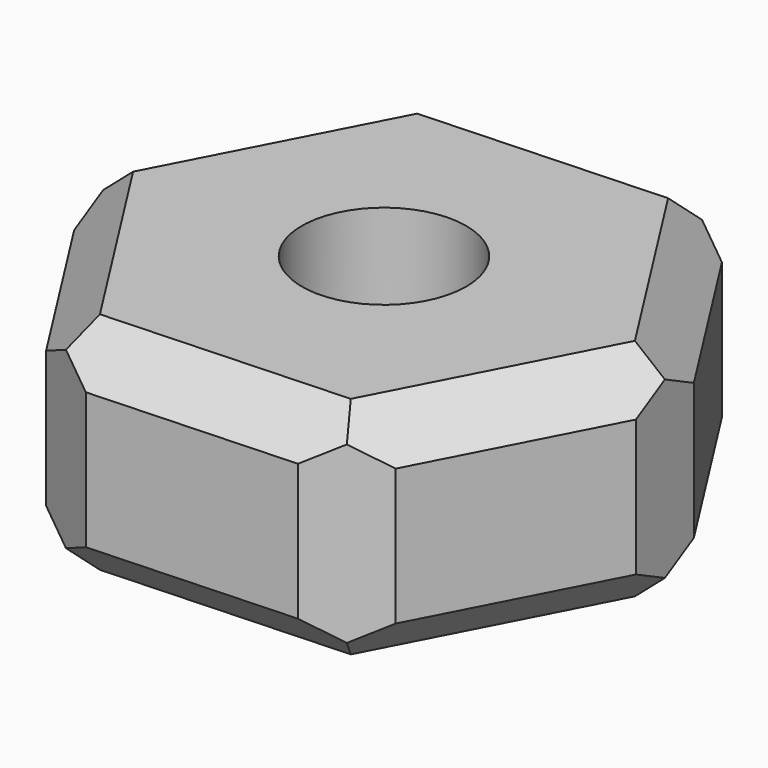
from build123d import *

# Parameters (mm, degrees)
F0_R     = 9.283405223
F1_DEPTH = 25.4
F2_SIZE  = 5
F3_SIZE  = 5


with BuildPart() as f1:
    # F0 (on Top) → F1 (new body)
    with BuildSketch(Plane.XY):
        Polygon((-17.8308878342, 27.9613517337), (-33.1306848427, -1.4613259696), (-15.2997970084, -29.4226777033), (17.8308878342, -27.9613517337), (33.1306848427, 1.4613259696), (15.2997970084, 29.4226777033), align=None)
        Circle(F0_R, mode=Mode.SUBTRACT)
    extrude(amount=F1_DEPTH)

    # F2
    f2_edges = [f1.edges().sort_by_distance(p)[0] for p in [
        (-17.830888, 27.961352, 12.7),
        (15.299797, 29.422678, 12.7),
        (33.130685, 1.461326, 12.7),
        (-33.130685, -1.461326, 12.7),
        (-15.299797, -29.422678, 12.7),
        (17.830888, -27.961352, 12.7),
    ]]
    chamfer(f2_edges, length=F2_SIZE)

    # F3 (call 1 of 12: OpenCascade refuses the feature's edges together)
    f3_edges = [f1.edges().sort_by_distance(p)[0] for p in [
        (24.215241, 15.442002, 0),
    ]]
    chamfer(f3_edges, length=F3_SIZE)

    # F3#2 (call 2 of 12)
    f3_2_edges = [f1.edges().sort_by_distance(p)[0] for p in [
        (-1.265545, 28.692015, 0),
    ]]
    chamfer(f3_2_edges, length=F3_SIZE)

    # F3#3 (call 3 of 12)
    f3_3_edges = [f1.edges().sort_by_distance(p)[0] for p in [
        (24.215241, 15.442002, 25.4),
    ]]
    chamfer(f3_3_edges, length=F3_SIZE)

    # F3#4 (call 4 of 12)
    f3_4_edges = [f1.edges().sort_by_distance(p)[0] for p in [
        (-1.265545, 28.692015, 25.4),
    ]]
    chamfer(f3_4_edges, length=F3_SIZE)

    # F3#5 (call 5 of 12)
    f3_5_edges = [f1.edges().sort_by_distance(p)[0] for p in [
        (-25.480786, 13.250013, 25.4),
    ]]
    chamfer(f3_5_edges, length=F3_SIZE)

    # F3#6 (call 6 of 12)
    f3_6_edges = [f1.edges().sort_by_distance(p)[0] for p in [
        (-25.480786, 13.250013, 0),
    ]]
    chamfer(f3_6_edges, length=F3_SIZE)

    # F3#7 (call 7 of 12)
    f3_7_edges = [f1.edges().sort_by_distance(p)[0] for p in [
        (-24.215241, -15.442002, 25.4),
    ]]
    chamfer(f3_7_edges, length=F3_SIZE)

    # F3#8 (call 8 of 12)
    f3_8_edges = [f1.edges().sort_by_distance(p)[0] for p in [
        (-24.215241, -15.442002, 0),
    ]]
    chamfer(f3_8_edges, length=F3_SIZE)

    # F3#9 (call 9 of 12)
    f3_9_edges = [f1.edges().sort_by_distance(p)[0] for p in [
        (25.480786, -13.250013, 25.4),
    ]]
    chamfer(f3_9_edges, length=F3_SIZE)

    # F3#10 (call 10 of 12)
    f3_10_edges = [f1.edges().sort_by_distance(p)[0] for p in [
        (25.480786, -13.250013, 0),
    ]]
    chamfer(f3_10_edges, length=F3_SIZE)

    # F3#11 (call 11 of 12)
    f3_11_edges = [f1.edges().sort_by_distance(p)[0] for p in [
        (1.265545, -28.692015, 0),
    ]]
    chamfer(f3_11_edges, length=F3_SIZE)

    # F3#12 (call 12 of 12)
    f3_12_edges = [f1.edges().sort_by_distance(p)[0] for p in [
        (1.265545, -28.692015, 25.4),
    ]]
    chamfer(f3_12_edges, length=F3_SIZE)


solid = f1.part
